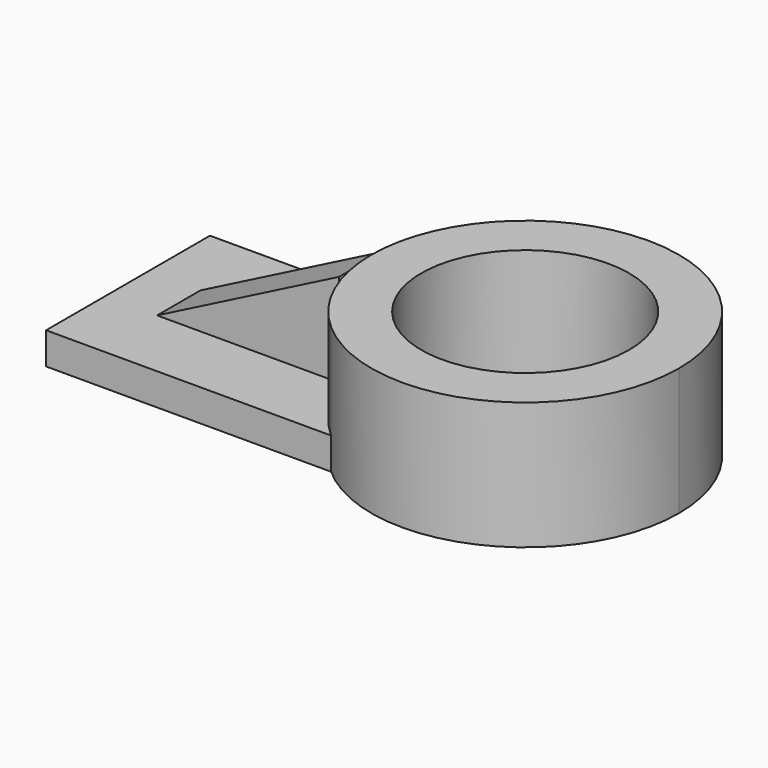
from build123d import *

# Parameters (mm, degrees)
F1_DEPTH = 6.35
F0_R     = 20.703057
F2_DEPTH = 25.4
F4_DEPTH = 18.542
F6_DEPTH = 25.4


with BuildPart() as f1:
    # F0 (on Top) → F1 (new body)
    with BuildSketch(Plane.XY):
        with BuildLine():
            ThreePointArc((24.584481, -6.386341), (14.495983, 13.150341), (20.096751, 34.412776))
            Line((20.096751, 34.412776), (-32.172695, 34.412776))
            Line((-32.172695, 34.412776), (-32.172695, -6.386341))
            Line((-32.172695, -6.386341), (24.584481, -6.386341))
        make_face()
    extrude(amount=F1_DEPTH)

    # F0 (on Top) → F2 (join)
    with BuildSketch(Plane.XY):
        with BuildLine():
            ThreePointArc((24.584481, -6.386341), (57.484915, -11.444852), (75.572235, 16.499306))
            ThreePointArc((75.572235, 16.499306), (54.354409, 45.647298), (20.096751, 34.412776))
            ThreePointArc((20.096751, 34.412776), (14.495983, 13.150341), (24.584481, -6.386341))
        make_face()
        with Locations((44.942293, 16.499306)):
            Circle(F0_R, mode=Mode.SUBTRACT)
    extrude(amount=F2_DEPTH)

    # F3 (on face) → F4 (join)
    with BuildSketch(Plane.XY.offset(6.35)):
        with BuildLine():
            ThreePointArc((14.423249, 13.89521), (14.312351, 16.499306), (14.423249, 19.103403))
            Line((14.423249, 19.103403), (-21.812018, 19.103403))
            Line((-21.812018, 19.103403), (-21.812018, 8.304046))
            Line((-21.812018, 8.304046), (14.423249, 8.304046))
            Line((14.423249, 8.304046), (14.423249, 13.89521))
        make_face()
    extrude(amount=F4_DEPTH)

    # F5 (on face) → F6 (cut)
    with BuildSketch(Plane.XZ.offset(-8.304046)):
        Polygon((-21.812018, 24.892), (-21.812018, 6.35), (14.423249, 24.892), align=None)
    extrude(amount=-F6_DEPTH, mode=Mode.SUBTRACT)


solid = f1.part
